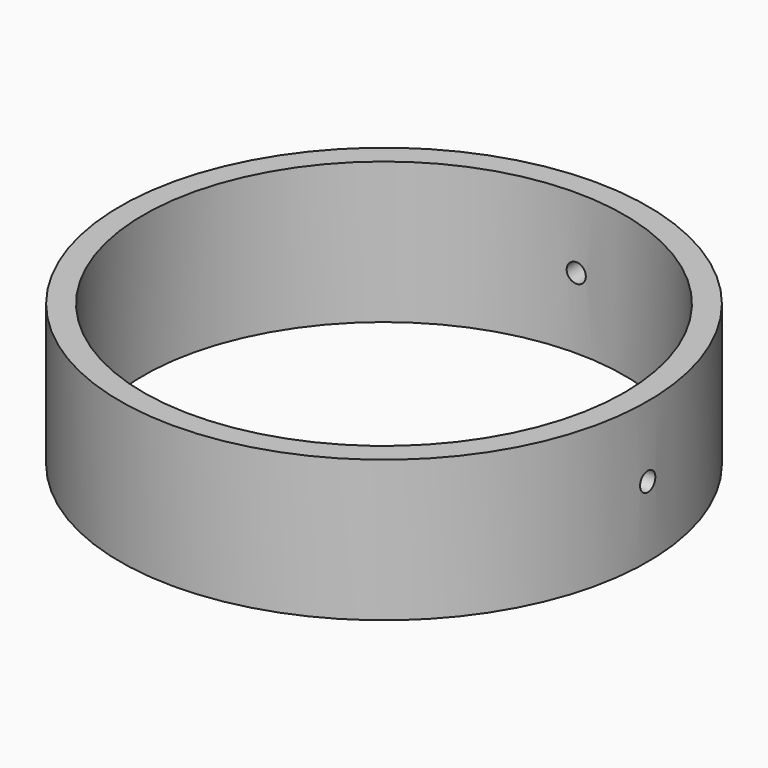
from build123d import *

# Parameters (mm, degrees)
F0_W     = 53.655
F0_H     = 28.74146271
F1_W     = 48.9
F1_H     = 28.74146271
F6_D     = 3.8862
F6_DEPTH = 53.656
F7_D     = 3.8862
F7_DEPTH = 53.6560001


with BuildPart() as f4:
    # F0 (on Right) → F4 (revolve)
    with BuildSketch(Plane.YZ):
        with Locations((26.8275, -14.370731355)):
            Rectangle(F0_W, F0_H)
    revolve(axis=Axis((0, 0, -14.370731355), (0, 0, -1)))

    # F1 (on Front) → F5 (revolve, cut)
    with BuildSketch(Plane.XZ):
        with Locations((24.45, -14.370731355)):
            Rectangle(F1_W, F1_H)
    revolve(axis=Axis((0, 0, -14.370731355), (0, 0, -1)), mode=Mode.SUBTRACT)

    # F6 (through all, one way)
    with BuildSketch(Plane(origin=(0, 0, 0), x_dir=(0, 1, 0), z_dir=(-1, 0, 0))):
        with Locations((0, 14.370731355)):
            Circle(F6_D / 2)
    extrude(amount=-F6_DEPTH, mode=Mode.SUBTRACT)

    # F7 (through all, one way)
    with BuildSketch(Plane.XZ):
        with Locations((0, -14.370731355)):
            Circle(F7_D / 2)
    extrude(amount=-F7_DEPTH, mode=Mode.SUBTRACT)


solid = f4.part
